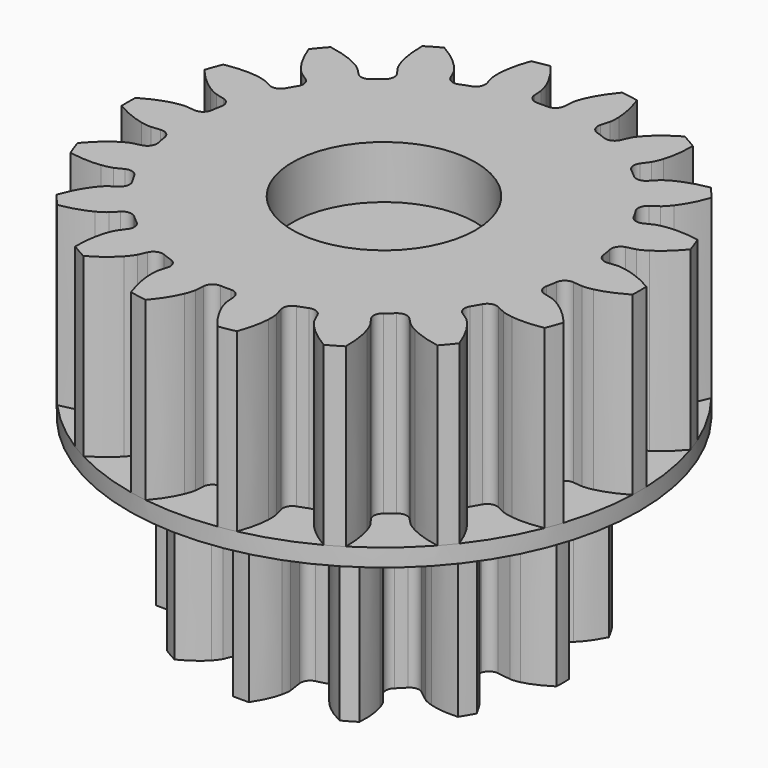
from build123d import *

# Parameters (mm, degrees)
PAD002_DEPTH    = 10
SKETCH_R        = 14.5
PAD_DEPTH       = 1
PAD001_DEPTH    = 10
SKETCH001_R     = 1.7
POCKET_DEPTH    = 17.7
SKETCH002_R     = 5
POCKET001_DEPTH = 3
SKETCH003_R     = 5.2
POCKET002_DEPTH = 3


with BuildPart() as pad:
    # InvoluteGear001 → Pad002 (new body)
    with BuildSketch(Plane.XY):
        with BuildLine():
            Line((7.332691, -1.076777), (8.11163, -1.189963))
            add(Edge.make_bspline(
                [(8.11163, -1.189963), (8.171593, -1.194233), (8.35162, -1.198221), (8.65427, -1.129313)],
                knots=[0, 0, 0, 0, 1, 1, 1, 1], degree=3))
            add(Edge.make_bspline(
                [(8.65427, -1.129313), (9.014524, -1.045174), (9.527501, -0.858342), (10.142045, -0.449147)],
                knots=[0, 0, 0, 0, 1, 1, 1, 1], degree=3))
            ThreePointArc((10.142045, -0.449147), (10.151987, 0), (10.142045, 0.449147))
            add(Edge.make_bspline(
                [(10.142045, 0.449147), (9.527501, 0.858342), (9.014524, 1.045174), (8.65427, 1.129313)],
                knots=[0, 0, 0, 0, 1, 1, 1, 1], degree=3))
            add(Edge.make_bspline(
                [(8.65427, 1.129313), (8.35162, 1.198221), (8.171593, 1.194233), (8.11163, 1.189963)],
                knots=[0, 0, 0, 0, 1, 1, 1, 1], degree=3))
            Line((8.11163, 1.189963), (7.332691, 1.076777))
            ThreePointArc((7.332691, 1.076777), (6.945887, 1.166515), (6.723226, 1.49529))
            ThreePointArc((6.723226, 1.49529), (6.652814, 1.782616), (6.570129, 2.066654))
            ThreePointArc((6.570129, 2.066654), (6.598572, 2.462712), (6.888686, 2.733829))
            Line((6.888686, 2.733829), (7.619859, 3.025277))
            add(Edge.make_bspline(
                [(7.619859, 3.025277), (7.673924, 3.05156), (7.831825, 3.13812), (8.059474, 3.349121)],
                knots=[0, 0, 0, 0, 1, 1, 1, 1], degree=3))
            add(Edge.make_bspline(
                [(8.059474, 3.349121), (8.329394, 3.602115), (8.680229, 4.020404), (9.007842, 4.68205)],
                knots=[0, 0, 0, 0, 1, 1, 1, 1], degree=3))
            ThreePointArc((9.007842, 4.68205), (8.791879, 5.075994), (8.558695, 5.459995))
            add(Edge.make_bspline(
                [(8.558695, 5.459995), (7.821886, 5.507097), (7.28422, 5.41241), (6.930161, 5.305148)],
                knots=[0, 0, 0, 0, 1, 1, 1, 1], degree=3))
            add(Edge.make_bspline(
                [(6.930161, 5.305148), (6.633604, 5.2135), (6.479691, 5.120033), (6.429896, 5.086354)],
                knots=[0, 0, 0, 0, 1, 1, 1, 1], degree=3))
            Line((6.429896, 5.086354), (5.811908, 4.598862))
            ThreePointArc((5.811908, 4.598862), (5.432057, 4.483175), (5.074839, 4.656572))
            ThreePointArc((5.074839, 4.656572), (4.870198, 4.870198), (4.656572, 5.074839))
            ThreePointArc((4.656572, 5.074839), (4.483175, 5.432057), (4.598862, 5.811908))
            Line((4.598862, 5.811908), (5.086354, 6.429896))
            add(Edge.make_bspline(
                [(5.086354, 6.429896), (5.120033, 6.479691), (5.2135, 6.633604), (5.305148, 6.930161)],
                knots=[0, 0, 0, 0, 1, 1, 1, 1], degree=3))
            add(Edge.make_bspline(
                [(5.305148, 6.930161), (5.41241, 7.28422), (5.507097, 7.821886), (5.459995, 8.558695)],
                knots=[0, 0, 0, 0, 1, 1, 1, 1], degree=3))
            ThreePointArc((5.459995, 8.558695), (5.075994, 8.791879), (4.68205, 9.007842))
            add(Edge.make_bspline(
                [(4.68205, 9.007842), (4.020404, 8.680229), (3.602115, 8.329394), (3.349121, 8.059474)],
                knots=[0, 0, 0, 0, 1, 1, 1, 1], degree=3))
            add(Edge.make_bspline(
                [(3.349121, 8.059474), (3.13812, 7.831825), (3.05156, 7.673924), (3.025277, 7.619859)],
                knots=[0, 0, 0, 0, 1, 1, 1, 1], degree=3))
            Line((3.025277, 7.619859), (2.733829, 6.888686))
            ThreePointArc((2.733829, 6.888686), (2.462712, 6.598572), (2.066654, 6.570129))
            ThreePointArc((2.066654, 6.570129), (1.782616, 6.652814), (1.49529, 6.723226))
            ThreePointArc((1.49529, 6.723226), (1.166515, 6.945887), (1.076777, 7.332691))
            Line((1.076777, 7.332691), (1.189963, 8.11163))
            add(Edge.make_bspline(
                [(1.189963, 8.11163), (1.194233, 8.171593), (1.198221, 8.35162), (1.129313, 8.65427)],
                knots=[0, 0, 0, 0, 1, 1, 1, 1], degree=3))
            add(Edge.make_bspline(
                [(1.129313, 8.65427), (1.045174, 9.014524), (0.858342, 9.527501), (0.449147, 10.142045)],
                knots=[0, 0, 0, 0, 1, 1, 1, 1], degree=3))
            ThreePointArc((0.449147, 10.142045), (0, 10.151987), (-0.449147, 10.142045))
            add(Edge.make_bspline(
                [(-0.449147, 10.142045), (-0.858342, 9.527501), (-1.045174, 9.014524), (-1.129313, 8.65427)],
                knots=[0, 0, 0, 0, 1, 1, 1, 1], degree=3))
            add(Edge.make_bspline(
                [(-1.129313, 8.65427), (-1.198221, 8.35162), (-1.194233, 8.171593), (-1.189963, 8.11163)],
                knots=[0, 0, 0, 0, 1, 1, 1, 1], degree=3))
            Line((-1.189963, 8.11163), (-1.076777, 7.332691))
            ThreePointArc((-1.076777, 7.332691), (-1.166515, 6.945887), (-1.49529, 6.723226))
            ThreePointArc((-1.49529, 6.723226), (-1.782616, 6.652814), (-2.066654, 6.570129))
            ThreePointArc((-2.066654, 6.570129), (-2.462712, 6.598572), (-2.733829, 6.888686))
            Line((-2.733829, 6.888686), (-3.025277, 7.619859))
            add(Edge.make_bspline(
                [(-3.025277, 7.619859), (-3.05156, 7.673924), (-3.13812, 7.831825), (-3.349121, 8.059474)],
                knots=[0, 0, 0, 0, 1, 1, 1, 1], degree=3))
            add(Edge.make_bspline(
                [(-3.349121, 8.059474), (-3.602115, 8.329394), (-4.020404, 8.680229), (-4.68205, 9.007842)],
                knots=[0, 0, 0, 0, 1, 1, 1, 1], degree=3))
            ThreePointArc((-4.68205, 9.007842), (-5.075994, 8.791879), (-5.459995, 8.558695))
            add(Edge.make_bspline(
                [(-5.459995, 8.558695), (-5.507097, 7.821886), (-5.41241, 7.28422), (-5.305148, 6.930161)],
                knots=[0, 0, 0, 0, 1, 1, 1, 1], degree=3))
            add(Edge.make_bspline(
                [(-5.305148, 6.930161), (-5.2135, 6.633604), (-5.120033, 6.479691), (-5.086354, 6.429896)],
                knots=[0, 0, 0, 0, 1, 1, 1, 1], degree=3))
            Line((-5.086354, 6.429896), (-4.598862, 5.811908))
            ThreePointArc((-4.598862, 5.811908), (-4.483175, 5.432057), (-4.656572, 5.074839))
            ThreePointArc((-4.656572, 5.074839), (-4.870198, 4.870198), (-5.074839, 4.656572))
            ThreePointArc((-5.074839, 4.656572), (-5.432057, 4.483175), (-5.811908, 4.598862))
            Line((-5.811908, 4.598862), (-6.429896, 5.086354))
            add(Edge.make_bspline(
                [(-6.429896, 5.086354), (-6.479691, 5.120033), (-6.633604, 5.2135), (-6.930161, 5.305148)],
                knots=[0, 0, 0, 0, 1, 1, 1, 1], degree=3))
            add(Edge.make_bspline(
                [(-6.930161, 5.305148), (-7.28422, 5.41241), (-7.821886, 5.507097), (-8.558695, 5.459995)],
                knots=[0, 0, 0, 0, 1, 1, 1, 1], degree=3))
            ThreePointArc((-8.558695, 5.459995), (-8.791879, 5.075994), (-9.007842, 4.68205))
            add(Edge.make_bspline(
                [(-9.007842, 4.68205), (-8.680229, 4.020404), (-8.329394, 3.602115), (-8.059474, 3.349121)],
                knots=[0, 0, 0, 0, 1, 1, 1, 1], degree=3))
            add(Edge.make_bspline(
                [(-8.059474, 3.349121), (-7.831825, 3.13812), (-7.673924, 3.05156), (-7.619859, 3.025277)],
                knots=[0, 0, 0, 0, 1, 1, 1, 1], degree=3))
            Line((-7.619859, 3.025277), (-6.888686, 2.733829))
            ThreePointArc((-6.888686, 2.733829), (-6.598572, 2.462712), (-6.570129, 2.066654))
            ThreePointArc((-6.570129, 2.066654), (-6.652814, 1.782616), (-6.723226, 1.49529))
            ThreePointArc((-6.723226, 1.49529), (-6.945887, 1.166515), (-7.332691, 1.076777))
            Line((-7.332691, 1.076777), (-8.11163, 1.189963))
            add(Edge.make_bspline(
                [(-8.11163, 1.189963), (-8.171593, 1.194233), (-8.35162, 1.198221), (-8.65427, 1.129313)],
                knots=[0, 0, 0, 0, 1, 1, 1, 1], degree=3))
            add(Edge.make_bspline(
                [(-8.65427, 1.129313), (-9.014524, 1.045174), (-9.527501, 0.858342), (-10.142045, 0.449147)],
                knots=[0, 0, 0, 0, 1, 1, 1, 1], degree=3))
            ThreePointArc((-10.142045, 0.449147), (-10.151987, 0), (-10.142045, -0.449147))
            add(Edge.make_bspline(
                [(-10.142045, -0.449147), (-9.527501, -0.858342), (-9.014524, -1.045174), (-8.65427, -1.129313)],
                knots=[0, 0, 0, 0, 1, 1, 1, 1], degree=3))
            add(Edge.make_bspline(
                [(-8.65427, -1.129313), (-8.35162, -1.198221), (-8.171593, -1.194233), (-8.11163, -1.189963)],
                knots=[0, 0, 0, 0, 1, 1, 1, 1], degree=3))
            Line((-8.11163, -1.189963), (-7.332691, -1.076777))
            ThreePointArc((-7.332691, -1.076777), (-6.945887, -1.166515), (-6.723226, -1.49529))
            ThreePointArc((-6.723226, -1.49529), (-6.652814, -1.782616), (-6.570129, -2.066654))
            ThreePointArc((-6.570129, -2.066654), (-6.598572, -2.462712), (-6.888686, -2.733829))
            Line((-6.888686, -2.733829), (-7.619859, -3.025277))
            add(Edge.make_bspline(
                [(-7.619859, -3.025277), (-7.673924, -3.05156), (-7.831825, -3.13812), (-8.059474, -3.349121)],
                knots=[0, 0, 0, 0, 1, 1, 1, 1], degree=3))
            add(Edge.make_bspline(
                [(-8.059474, -3.349121), (-8.329394, -3.602115), (-8.680229, -4.020404), (-9.007842, -4.68205)],
                knots=[0, 0, 0, 0, 1, 1, 1, 1], degree=3))
            ThreePointArc((-9.007842, -4.68205), (-8.791879, -5.075994), (-8.558695, -5.459995))
            add(Edge.make_bspline(
                [(-8.558695, -5.459995), (-7.821886, -5.507097), (-7.28422, -5.41241), (-6.930161, -5.305148)],
                knots=[0, 0, 0, 0, 1, 1, 1, 1], degree=3))
            add(Edge.make_bspline(
                [(-6.930161, -5.305148), (-6.633604, -5.2135), (-6.479691, -5.120033), (-6.429896, -5.086354)],
                knots=[0, 0, 0, 0, 1, 1, 1, 1], degree=3))
            Line((-6.429896, -5.086354), (-5.811908, -4.598862))
            ThreePointArc((-5.811908, -4.598862), (-5.432057, -4.483175), (-5.074839, -4.656572))
            ThreePointArc((-5.074839, -4.656572), (-4.870198, -4.870198), (-4.656572, -5.074839))
            ThreePointArc((-4.656572, -5.074839), (-4.483175, -5.432057), (-4.598862, -5.811908))
            Line((-4.598862, -5.811908), (-5.086354, -6.429896))
            add(Edge.make_bspline(
                [(-5.086354, -6.429896), (-5.120033, -6.479691), (-5.2135, -6.633604), (-5.305148, -6.930161)],
                knots=[0, 0, 0, 0, 1, 1, 1, 1], degree=3))
            add(Edge.make_bspline(
                [(-5.305148, -6.930161), (-5.41241, -7.28422), (-5.507097, -7.821886), (-5.459995, -8.558695)],
                knots=[0, 0, 0, 0, 1, 1, 1, 1], degree=3))
            ThreePointArc((-5.459995, -8.558695), (-5.075994, -8.791879), (-4.68205, -9.007842))
            add(Edge.make_bspline(
                [(-4.68205, -9.007842), (-4.020404, -8.680229), (-3.602115, -8.329394), (-3.349121, -8.059474)],
                knots=[0, 0, 0, 0, 1, 1, 1, 1], degree=3))
            add(Edge.make_bspline(
                [(-3.349121, -8.059474), (-3.13812, -7.831825), (-3.05156, -7.673924), (-3.025277, -7.619859)],
                knots=[0, 0, 0, 0, 1, 1, 1, 1], degree=3))
            Line((-3.025277, -7.619859), (-2.733829, -6.888686))
            ThreePointArc((-2.733829, -6.888686), (-2.462712, -6.598572), (-2.066654, -6.570129))
            ThreePointArc((-2.066654, -6.570129), (-1.782616, -6.652814), (-1.49529, -6.723226))
            ThreePointArc((-1.49529, -6.723226), (-1.166515, -6.945887), (-1.076777, -7.332691))
            Line((-1.076777, -7.332691), (-1.189963, -8.11163))
            add(Edge.make_bspline(
                [(-1.189963, -8.11163), (-1.194233, -8.171593), (-1.198221, -8.35162), (-1.129313, -8.65427)],
                knots=[0, 0, 0, 0, 1, 1, 1, 1], degree=3))
            add(Edge.make_bspline(
                [(-1.129313, -8.65427), (-1.045174, -9.014524), (-0.858342, -9.527501), (-0.449147, -10.142045)],
                knots=[0, 0, 0, 0, 1, 1, 1, 1], degree=3))
            ThreePointArc((-0.449147, -10.142045), (0, -10.151987), (0.449147, -10.142045))
            add(Edge.make_bspline(
                [(0.449147, -10.142045), (0.858342, -9.527501), (1.045174, -9.014524), (1.129313, -8.65427)],
                knots=[0, 0, 0, 0, 1, 1, 1, 1], degree=3))
            add(Edge.make_bspline(
                [(1.129313, -8.65427), (1.198221, -8.35162), (1.194233, -8.171593), (1.189963, -8.11163)],
                knots=[0, 0, 0, 0, 1, 1, 1, 1], degree=3))
            Line((1.189963, -8.11163), (1.076777, -7.332691))
            ThreePointArc((1.076777, -7.332691), (1.166515, -6.945887), (1.49529, -6.723226))
            ThreePointArc((1.49529, -6.723226), (1.782616, -6.652814), (2.066654, -6.570129))
            ThreePointArc((2.066654, -6.570129), (2.462712, -6.598572), (2.733829, -6.888686))
            Line((2.733829, -6.888686), (3.025277, -7.619859))
            add(Edge.make_bspline(
                [(3.025277, -7.619859), (3.05156, -7.673924), (3.13812, -7.831825), (3.349121, -8.059474)],
                knots=[0, 0, 0, 0, 1, 1, 1, 1], degree=3))
            add(Edge.make_bspline(
                [(3.349121, -8.059474), (3.602115, -8.329394), (4.020404, -8.680229), (4.68205, -9.007842)],
                knots=[0, 0, 0, 0, 1, 1, 1, 1], degree=3))
            ThreePointArc((4.68205, -9.007842), (5.075994, -8.791879), (5.459995, -8.558695))
            add(Edge.make_bspline(
                [(5.459995, -8.558695), (5.507097, -7.821886), (5.41241, -7.28422), (5.305148, -6.930161)],
                knots=[0, 0, 0, 0, 1, 1, 1, 1], degree=3))
            add(Edge.make_bspline(
                [(5.305148, -6.930161), (5.2135, -6.633604), (5.120033, -6.479691), (5.086354, -6.429896)],
                knots=[0, 0, 0, 0, 1, 1, 1, 1], degree=3))
            Line((5.086354, -6.429896), (4.598862, -5.811908))
            ThreePointArc((4.598862, -5.811908), (4.483175, -5.432057), (4.656572, -5.074839))
            ThreePointArc((4.656572, -5.074839), (4.870198, -4.870198), (5.074839, -4.656572))
            ThreePointArc((5.074839, -4.656572), (5.432057, -4.483175), (5.811908, -4.598862))
            Line((5.811908, -4.598862), (6.429896, -5.086354))
            add(Edge.make_bspline(
                [(6.429896, -5.086354), (6.479691, -5.120033), (6.633604, -5.2135), (6.930161, -5.305148)],
                knots=[0, 0, 0, 0, 1, 1, 1, 1], degree=3))
            add(Edge.make_bspline(
                [(6.930161, -5.305148), (7.28422, -5.41241), (7.821886, -5.507097), (8.558695, -5.459995)],
                knots=[0, 0, 0, 0, 1, 1, 1, 1], degree=3))
            ThreePointArc((8.558695, -5.459995), (8.791879, -5.075994), (9.007842, -4.68205))
            add(Edge.make_bspline(
                [(9.007842, -4.68205), (8.680229, -4.020404), (8.329394, -3.602115), (8.059474, -3.349121)],
                knots=[0, 0, 0, 0, 1, 1, 1, 1], degree=3))
            add(Edge.make_bspline(
                [(8.059474, -3.349121), (7.831825, -3.13812), (7.673924, -3.05156), (7.619859, -3.025277)],
                knots=[0, 0, 0, 0, 1, 1, 1, 1], degree=3))
            Line((7.619859, -3.025277), (6.888686, -2.733829))
            ThreePointArc((6.888686, -2.733829), (6.598572, -2.462712), (6.570129, -2.066654))
            ThreePointArc((6.570129, -2.066654), (6.652814, -1.782616), (6.723226, -1.49529))
            ThreePointArc((6.723226, -1.49529), (6.945887, -1.166515), (7.332691, -1.076777))
        make_face()
    extrude(amount=-PAD002_DEPTH)

    # Sketch → Pad (new body)
    with BuildSketch(Plane.XY):
        Circle(SKETCH_R)
    extrude(amount=PAD_DEPTH)


with BuildPart() as final:
    # InvoluteGear → Pad001 (new body)
    with BuildSketch(Plane.XY.offset(1)):
        with BuildLine():
            Line((11.707323, -1.200327), (12.224235, -1.252222))
            add(Edge.make_bspline(
                [(12.224235, -1.252222), (12.290492, -1.254765), (12.489834, -1.254028), (12.822773, -1.181097)],
                knots=[0, 0, 0, 0, 1, 1, 1, 1], degree=3))
            add(Edge.make_bspline(
                [(12.822773, -1.181097), (13.220721, -1.092448), (13.792352, -0.90147), (14.493245, -0.493472)],
                knots=[0, 0, 0, 0, 1, 1, 1, 1], degree=3))
            ThreePointArc((14.493245, -0.493472), (14.501644, 0), (14.493245, 0.493472))
            add(Edge.make_bspline(
                [(14.493245, 0.493472), (13.792352, 0.90147), (13.220721, 1.092448), (12.822773, 1.181097)],
                knots=[0, 0, 0, 0, 1, 1, 1, 1], degree=3))
            add(Edge.make_bspline(
                [(12.822773, 1.181097), (12.489834, 1.254028), (12.290492, 1.254765), (12.224235, 1.252222)],
                knots=[0, 0, 0, 0, 1, 1, 1, 1], degree=3))
            Line((12.224235, 1.252222), (11.707323, 1.200327))
            ThreePointArc((11.707323, 1.200327), (11.318638, 1.311561), (11.114167, 1.66033))
            ThreePointArc((11.114167, 1.66033), (11.066777, 1.951371), (11.011767, 2.241069))
            ThreePointArc((11.011767, 2.241069), (11.084621, 2.638738), (11.411821, 2.876202))
            Line((11.411821, 2.876202), (11.915309, 3.004231))
            add(Edge.make_bspline(
                [(11.915309, 3.004231), (11.978439, 3.024502), (12.165508, 3.093374), (12.453424, 3.275779)],
                knots=[0, 0, 0, 0, 1, 1, 1, 1], degree=3))
            add(Edge.make_bspline(
                [(12.453424, 3.275779), (12.797053, 3.495187), (13.268892, 3.870157), (13.787973, 4.49327)],
                knots=[0, 0, 0, 0, 1, 1, 1, 1], degree=3))
            ThreePointArc((13.787973, 4.49327), (13.627088, 4.959855), (13.450418, 5.420694))
            add(Edge.make_bspline(
                [(13.450418, 5.420694), (12.652251, 5.564367), (12.049774, 5.548318), (11.645506, 5.495514)],
                knots=[0, 0, 0, 0, 1, 1, 1, 1], degree=3))
            add(Edge.make_bspline(
                [(11.645506, 5.495514), (11.307703, 5.450176), (11.12013, 5.382689), (11.058738, 5.357639)],
                knots=[0, 0, 0, 0, 1, 1, 1, 1], degree=3))
            Line((11.058738, 5.357639), (10.590749, 5.132078))
            ThreePointArc((10.590749, 5.132078), (10.187461, 5.103666), (9.876034, 5.361469))
            ThreePointArc((9.876034, 5.361469), (9.73196, 5.61875), (9.581186, 5.872162))
            ThreePointArc((9.581186, 5.872162), (9.513635, 6.270767), (9.739885, 6.605818))
            Line((9.739885, 6.605818), (10.169221, 6.898329))
            add(Edge.make_bspline(
                [(10.169221, 6.898329), (10.22161, 6.93897), (10.373842, 7.06767), (10.582008, 7.337547)],
                knots=[0, 0, 0, 0, 1, 1, 1, 1], degree=3))
            add(Edge.make_bspline(
                [(10.582008, 7.337547), (10.829872, 7.661252), (11.145008, 8.174987), (11.419667, 8.938057)],
                knots=[0, 0, 0, 0, 1, 1, 1, 1], degree=3))
            ThreePointArc((11.419667, 8.938057), (11.108904, 9.321477), (10.785272, 9.6941))
            add(Edge.make_bspline(
                [(10.785272, 9.6941), (9.986101, 9.556119), (9.425447, 9.334979), (9.06362, 9.147092)],
                knots=[0, 0, 0, 0, 1, 1, 1, 1], degree=3))
            add(Edge.make_bspline(
                [(9.06362, 9.147092), (8.761695, 8.988952), (8.608516, 8.861382), (8.559394, 8.816845)],
                knots=[0, 0, 0, 0, 1, 1, 1, 1], degree=3))
            Line((8.559394, 8.816845), (8.196774, 8.444826))
            ThreePointArc((8.196774, 8.444826), (7.827525, 8.280194), (7.446706, 8.415936))
            ThreePointArc((7.446706, 8.415936), (7.223326, 8.608424), (6.994972, 8.794986))
            ThreePointArc((6.994972, 8.794986), (6.795164, 9.146448), (6.893175, 9.538675))
            Line((6.893175, 9.538675), (7.196574, 9.960387))
            add(Edge.make_bspline(
                [(7.196574, 9.960387), (7.231904, 10.016496), (7.330937, 10.1895), (7.434246, 10.514299)],
                knots=[0, 0, 0, 0, 1, 1, 1, 1], degree=3))
            add(Edge.make_bspline(
                [(7.434246, 10.514299), (7.556448, 10.903256), (7.676872, 11.493792), (7.673982, 12.304782)],
                knots=[0, 0, 0, 0, 1, 1, 1, 1], degree=3))
            ThreePointArc((7.673982, 12.304782), (7.250822, 12.558792), (6.819263, 12.798254))
            add(Edge.make_bspline(
                [(6.819263, 12.798254), (6.11548, 12.395262), (5.664272, 11.995704), (5.388527, 11.695396)],
                knots=[0, 0, 0, 0, 1, 1, 1, 1], degree=3))
            add(Edge.make_bspline(
                [(5.388527, 11.695396), (5.158897, 11.443528), (5.058588, 11.271261), (5.027661, 11.21261)],
                knots=[0, 0, 0, 0, 1, 1, 1, 1], degree=3))
            Line((5.027661, 11.21261), (4.814148, 10.739002))
            ThreePointArc((4.814148, 10.739002), (4.523474, 10.458009), (4.119196, 10.455316))
            ThreePointArc((4.119196, 10.455316), (3.843451, 10.559796), (3.565061, 10.657005))
            ThreePointArc((3.565061, 10.657005), (3.257096, 10.918933), (3.215046, 11.321028))
            Line((3.215046, 11.321028), (3.355915, 11.821076))
            add(Edge.make_bspline(
                [(3.355915, 11.821076), (3.369924, 11.885884), (3.403813, 12.082326), (3.389804, 12.422871)],
                knots=[0, 0, 0, 0, 1, 1, 1, 1], degree=3))
            add(Edge.make_bspline(
                [(3.389804, 12.422871), (3.371605, 12.830166), (3.282792, 13.426277), (3.0027, 14.18737)],
                knots=[0, 0, 0, 0, 1, 1, 1, 1], degree=3))
            ThreePointArc((3.0027, 14.18737), (2.518184, 14.281332), (2.030751, 14.35875))
            add(Edge.make_bspline(
                [(2.030751, 14.35875), (1.507242, 13.739354), (1.219903, 13.20957), (1.063498, 12.833062)],
                knots=[0, 0, 0, 0, 1, 1, 1, 1], degree=3))
            add(Edge.make_bspline(
                [(1.063498, 12.833062), (0.933861, 12.517845), (0.898519, 12.321659), (0.889518, 12.255968)],
                knots=[0, 0, 0, 0, 1, 1, 1, 1], degree=3))
            Line((0.889518, 12.255968), (0.850864, 11.737897))
            ThreePointArc((0.850864, 11.737897), (0.673826, 11.374433), (0.294849, 11.233631))
            ThreePointArc((0.294849, 11.233631), (0, 11.2375), (-0.294849, 11.233631))
            ThreePointArc((-0.294849, 11.233631), (-0.673826, 11.374433), (-0.850864, 11.737897))
            Line((-0.850864, 11.737897), (-0.889518, 12.255968))
            add(Edge.make_bspline(
                [(-0.889518, 12.255968), (-0.898519, 12.321659), (-0.933861, 12.517845), (-1.063498, 12.833062)],
                knots=[0, 0, 0, 0, 1, 1, 1, 1], degree=3))
            add(Edge.make_bspline(
                [(-1.063498, 12.833062), (-1.219903, 13.20957), (-1.507242, 13.739354), (-2.030751, 14.35875)],
                knots=[0, 0, 0, 0, 1, 1, 1, 1], degree=3))
            ThreePointArc((-2.030751, 14.35875), (-2.518184, 14.281332), (-3.0027, 14.18737))
            add(Edge.make_bspline(
                [(-3.0027, 14.18737), (-3.282792, 13.426277), (-3.371605, 12.830166), (-3.389804, 12.422871)],
                knots=[0, 0, 0, 0, 1, 1, 1, 1], degree=3))
            add(Edge.make_bspline(
                [(-3.389804, 12.422871), (-3.403813, 12.082326), (-3.369924, 11.885884), (-3.355915, 11.821076)],
                knots=[0, 0, 0, 0, 1, 1, 1, 1], degree=3))
            Line((-3.355915, 11.821076), (-3.215046, 11.321028))
            ThreePointArc((-3.215046, 11.321028), (-3.257096, 10.918933), (-3.565061, 10.657005))
            ThreePointArc((-3.565061, 10.657005), (-3.843451, 10.559796), (-4.119196, 10.455316))
            ThreePointArc((-4.119196, 10.455316), (-4.523474, 10.458009), (-4.814148, 10.739002))
            Line((-4.814148, 10.739002), (-5.027661, 11.21261))
            add(Edge.make_bspline(
                [(-5.027661, 11.21261), (-5.058588, 11.271261), (-5.158897, 11.443528), (-5.388527, 11.695396)],
                knots=[0, 0, 0, 0, 1, 1, 1, 1], degree=3))
            add(Edge.make_bspline(
                [(-5.388527, 11.695396), (-5.664272, 11.995704), (-6.11548, 12.395262), (-6.819263, 12.798254)],
                knots=[0, 0, 0, 0, 1, 1, 1, 1], degree=3))
            ThreePointArc((-6.819263, 12.798254), (-7.250822, 12.558792), (-7.673982, 12.304782))
            add(Edge.make_bspline(
                [(-7.673982, 12.304782), (-7.676872, 11.493792), (-7.556448, 10.903256), (-7.434246, 10.514299)],
                knots=[0, 0, 0, 0, 1, 1, 1, 1], degree=3))
            add(Edge.make_bspline(
                [(-7.434246, 10.514299), (-7.330937, 10.1895), (-7.231904, 10.016496), (-7.196574, 9.960387)],
                knots=[0, 0, 0, 0, 1, 1, 1, 1], degree=3))
            Line((-7.196574, 9.960387), (-6.893175, 9.538675))
            ThreePointArc((-6.893175, 9.538675), (-6.795164, 9.146448), (-6.994972, 8.794986))
            ThreePointArc((-6.994972, 8.794986), (-7.223326, 8.608424), (-7.446706, 8.415936))
            ThreePointArc((-7.446706, 8.415936), (-7.827525, 8.280194), (-8.196774, 8.444826))
            Line((-8.196774, 8.444826), (-8.559394, 8.816845))
            add(Edge.make_bspline(
                [(-8.559394, 8.816845), (-8.608516, 8.861382), (-8.761695, 8.988952), (-9.06362, 9.147092)],
                knots=[0, 0, 0, 0, 1, 1, 1, 1], degree=3))
            add(Edge.make_bspline(
                [(-9.06362, 9.147092), (-9.425447, 9.334979), (-9.986101, 9.556119), (-10.785272, 9.6941)],
                knots=[0, 0, 0, 0, 1, 1, 1, 1], degree=3))
            ThreePointArc((-10.785272, 9.6941), (-11.108904, 9.321477), (-11.419667, 8.938057))
            add(Edge.make_bspline(
                [(-11.419667, 8.938057), (-11.145008, 8.174987), (-10.829872, 7.661252), (-10.582008, 7.337547)],
                knots=[0, 0, 0, 0, 1, 1, 1, 1], degree=3))
            add(Edge.make_bspline(
                [(-10.582008, 7.337547), (-10.373842, 7.06767), (-10.22161, 6.93897), (-10.169221, 6.898329)],
                knots=[0, 0, 0, 0, 1, 1, 1, 1], degree=3))
            Line((-10.169221, 6.898329), (-9.739885, 6.605818))
            ThreePointArc((-9.739885, 6.605818), (-9.513635, 6.270767), (-9.581186, 5.872162))
            ThreePointArc((-9.581186, 5.872162), (-9.73196, 5.61875), (-9.876034, 5.361469))
            ThreePointArc((-9.876034, 5.361469), (-10.187461, 5.103666), (-10.590749, 5.132078))
            Line((-10.590749, 5.132078), (-11.058738, 5.357639))
            add(Edge.make_bspline(
                [(-11.058738, 5.357639), (-11.12013, 5.382689), (-11.307703, 5.450176), (-11.645506, 5.495514)],
                knots=[0, 0, 0, 0, 1, 1, 1, 1], degree=3))
            add(Edge.make_bspline(
                [(-11.645506, 5.495514), (-12.049774, 5.548318), (-12.652251, 5.564367), (-13.450418, 5.420694)],
                knots=[0, 0, 0, 0, 1, 1, 1, 1], degree=3))
            ThreePointArc((-13.450418, 5.420694), (-13.627088, 4.959855), (-13.787973, 4.49327))
            add(Edge.make_bspline(
                [(-13.787973, 4.49327), (-13.268892, 3.870157), (-12.797053, 3.495187), (-12.453424, 3.275779)],
                knots=[0, 0, 0, 0, 1, 1, 1, 1], degree=3))
            add(Edge.make_bspline(
                [(-12.453424, 3.275779), (-12.165508, 3.093374), (-11.978439, 3.024502), (-11.915309, 3.004231)],
                knots=[0, 0, 0, 0, 1, 1, 1, 1], degree=3))
            Line((-11.915309, 3.004231), (-11.411821, 2.876202))
            ThreePointArc((-11.411821, 2.876202), (-11.084621, 2.638738), (-11.011767, 2.241069))
            ThreePointArc((-11.011767, 2.241069), (-11.066777, 1.951371), (-11.114167, 1.66033))
            ThreePointArc((-11.114167, 1.66033), (-11.318638, 1.311561), (-11.707323, 1.200327))
            Line((-11.707323, 1.200327), (-12.224235, 1.252222))
            add(Edge.make_bspline(
                [(-12.224235, 1.252222), (-12.290492, 1.254765), (-12.489834, 1.254028), (-12.822773, 1.181097)],
                knots=[0, 0, 0, 0, 1, 1, 1, 1], degree=3))
            add(Edge.make_bspline(
                [(-12.822773, 1.181097), (-13.220721, 1.092448), (-13.792352, 0.90147), (-14.493245, 0.493472)],
                knots=[0, 0, 0, 0, 1, 1, 1, 1], degree=3))
            ThreePointArc((-14.493245, 0.493472), (-14.501644, 0), (-14.493245, -0.493472))
            add(Edge.make_bspline(
                [(-14.493245, -0.493472), (-13.792352, -0.90147), (-13.220721, -1.092448), (-12.822773, -1.181097)],
                knots=[0, 0, 0, 0, 1, 1, 1, 1], degree=3))
            add(Edge.make_bspline(
                [(-12.822773, -1.181097), (-12.489834, -1.254028), (-12.290492, -1.254765), (-12.224235, -1.252222)],
                knots=[0, 0, 0, 0, 1, 1, 1, 1], degree=3))
            Line((-12.224235, -1.252222), (-11.707323, -1.200327))
            ThreePointArc((-11.707323, -1.200327), (-11.318638, -1.311561), (-11.114167, -1.66033))
            ThreePointArc((-11.114167, -1.66033), (-11.066777, -1.951371), (-11.011767, -2.241069))
            ThreePointArc((-11.011767, -2.241069), (-11.084621, -2.638738), (-11.411821, -2.876202))
            Line((-11.411821, -2.876202), (-11.915309, -3.004231))
            add(Edge.make_bspline(
                [(-11.915309, -3.004231), (-11.978439, -3.024502), (-12.165508, -3.093374), (-12.453424, -3.275779)],
                knots=[0, 0, 0, 0, 1, 1, 1, 1], degree=3))
            add(Edge.make_bspline(
                [(-12.453424, -3.275779), (-12.797053, -3.495187), (-13.268892, -3.870157), (-13.787973, -4.49327)],
                knots=[0, 0, 0, 0, 1, 1, 1, 1], degree=3))
            ThreePointArc((-13.787973, -4.49327), (-13.627088, -4.959855), (-13.450418, -5.420694))
            add(Edge.make_bspline(
                [(-13.450418, -5.420694), (-12.652251, -5.564367), (-12.049774, -5.548318), (-11.645506, -5.495514)],
                knots=[0, 0, 0, 0, 1, 1, 1, 1], degree=3))
            add(Edge.make_bspline(
                [(-11.645506, -5.495514), (-11.307703, -5.450176), (-11.12013, -5.382689), (-11.058738, -5.357639)],
                knots=[0, 0, 0, 0, 1, 1, 1, 1], degree=3))
            Line((-11.058738, -5.357639), (-10.590749, -5.132078))
            ThreePointArc((-10.590749, -5.132078), (-10.187461, -5.103666), (-9.876034, -5.361469))
            ThreePointArc((-9.876034, -5.361469), (-9.73196, -5.61875), (-9.581186, -5.872162))
            ThreePointArc((-9.581186, -5.872162), (-9.513635, -6.270767), (-9.739885, -6.605818))
            Line((-9.739885, -6.605818), (-10.169221, -6.898329))
            add(Edge.make_bspline(
                [(-10.169221, -6.898329), (-10.22161, -6.93897), (-10.373842, -7.06767), (-10.582008, -7.337547)],
                knots=[0, 0, 0, 0, 1, 1, 1, 1], degree=3))
            add(Edge.make_bspline(
                [(-10.582008, -7.337547), (-10.829872, -7.661252), (-11.145008, -8.174987), (-11.419667, -8.938057)],
                knots=[0, 0, 0, 0, 1, 1, 1, 1], degree=3))
            ThreePointArc((-11.419667, -8.938057), (-11.108904, -9.321477), (-10.785272, -9.6941))
            add(Edge.make_bspline(
                [(-10.785272, -9.6941), (-9.986101, -9.556119), (-9.425447, -9.334979), (-9.06362, -9.147092)],
                knots=[0, 0, 0, 0, 1, 1, 1, 1], degree=3))
            add(Edge.make_bspline(
                [(-9.06362, -9.147092), (-8.761695, -8.988952), (-8.608516, -8.861382), (-8.559394, -8.816845)],
                knots=[0, 0, 0, 0, 1, 1, 1, 1], degree=3))
            Line((-8.559394, -8.816845), (-8.196774, -8.444826))
            ThreePointArc((-8.196774, -8.444826), (-7.827525, -8.280194), (-7.446706, -8.415936))
            ThreePointArc((-7.446706, -8.415936), (-7.223326, -8.608424), (-6.994972, -8.794986))
            ThreePointArc((-6.994972, -8.794986), (-6.795164, -9.146448), (-6.893175, -9.538675))
            Line((-6.893175, -9.538675), (-7.196574, -9.960387))
            add(Edge.make_bspline(
                [(-7.196574, -9.960387), (-7.231904, -10.016496), (-7.330937, -10.1895), (-7.434246, -10.514299)],
                knots=[0, 0, 0, 0, 1, 1, 1, 1], degree=3))
            add(Edge.make_bspline(
                [(-7.434246, -10.514299), (-7.556448, -10.903256), (-7.676872, -11.493792), (-7.673982, -12.304782)],
                knots=[0, 0, 0, 0, 1, 1, 1, 1], degree=3))
            ThreePointArc((-7.673982, -12.304782), (-7.250822, -12.558792), (-6.819263, -12.798254))
            add(Edge.make_bspline(
                [(-6.819263, -12.798254), (-6.11548, -12.395262), (-5.664272, -11.995704), (-5.388527, -11.695396)],
                knots=[0, 0, 0, 0, 1, 1, 1, 1], degree=3))
            add(Edge.make_bspline(
                [(-5.388527, -11.695396), (-5.158897, -11.443528), (-5.058588, -11.271261), (-5.027661, -11.21261)],
                knots=[0, 0, 0, 0, 1, 1, 1, 1], degree=3))
            Line((-5.027661, -11.21261), (-4.814148, -10.739002))
            ThreePointArc((-4.814148, -10.739002), (-4.523474, -10.458009), (-4.119196, -10.455316))
            ThreePointArc((-4.119196, -10.455316), (-3.843451, -10.559796), (-3.565061, -10.657005))
            ThreePointArc((-3.565061, -10.657005), (-3.257096, -10.918933), (-3.215046, -11.321028))
            Line((-3.215046, -11.321028), (-3.355915, -11.821076))
            add(Edge.make_bspline(
                [(-3.355915, -11.821076), (-3.369924, -11.885884), (-3.403813, -12.082326), (-3.389804, -12.422871)],
                knots=[0, 0, 0, 0, 1, 1, 1, 1], degree=3))
            add(Edge.make_bspline(
                [(-3.389804, -12.422871), (-3.371605, -12.830166), (-3.282792, -13.426277), (-3.0027, -14.18737)],
                knots=[0, 0, 0, 0, 1, 1, 1, 1], degree=3))
            ThreePointArc((-3.0027, -14.18737), (-2.518184, -14.281332), (-2.030751, -14.35875))
            add(Edge.make_bspline(
                [(-2.030751, -14.35875), (-1.507242, -13.739354), (-1.219903, -13.20957), (-1.063498, -12.833062)],
                knots=[0, 0, 0, 0, 1, 1, 1, 1], degree=3))
            add(Edge.make_bspline(
                [(-1.063498, -12.833062), (-0.933861, -12.517845), (-0.898519, -12.321659), (-0.889518, -12.255968)],
                knots=[0, 0, 0, 0, 1, 1, 1, 1], degree=3))
            Line((-0.889518, -12.255968), (-0.850864, -11.737897))
            ThreePointArc((-0.850864, -11.737897), (-0.673826, -11.374433), (-0.294849, -11.233631))
            ThreePointArc((-0.294849, -11.233631), (0, -11.2375), (0.294849, -11.233631))
            ThreePointArc((0.294849, -11.233631), (0.673826, -11.374433), (0.850864, -11.737897))
            Line((0.850864, -11.737897), (0.889518, -12.255968))
            add(Edge.make_bspline(
                [(0.889518, -12.255968), (0.898519, -12.321659), (0.933861, -12.517845), (1.063498, -12.833062)],
                knots=[0, 0, 0, 0, 1, 1, 1, 1], degree=3))
            add(Edge.make_bspline(
                [(1.063498, -12.833062), (1.219903, -13.20957), (1.507242, -13.739354), (2.030751, -14.35875)],
                knots=[0, 0, 0, 0, 1, 1, 1, 1], degree=3))
            ThreePointArc((2.030751, -14.35875), (2.518184, -14.281332), (3.0027, -14.18737))
            add(Edge.make_bspline(
                [(3.0027, -14.18737), (3.282792, -13.426277), (3.371605, -12.830166), (3.389804, -12.422871)],
                knots=[0, 0, 0, 0, 1, 1, 1, 1], degree=3))
            add(Edge.make_bspline(
                [(3.389804, -12.422871), (3.403813, -12.082326), (3.369924, -11.885884), (3.355915, -11.821076)],
                knots=[0, 0, 0, 0, 1, 1, 1, 1], degree=3))
            Line((3.355915, -11.821076), (3.215046, -11.321028))
            ThreePointArc((3.215046, -11.321028), (3.257096, -10.918933), (3.565061, -10.657005))
            ThreePointArc((3.565061, -10.657005), (3.843451, -10.559796), (4.119196, -10.455316))
            ThreePointArc((4.119196, -10.455316), (4.523474, -10.458009), (4.814148, -10.739002))
            Line((4.814148, -10.739002), (5.027661, -11.21261))
            add(Edge.make_bspline(
                [(5.027661, -11.21261), (5.058588, -11.271261), (5.158897, -11.443528), (5.388527, -11.695396)],
                knots=[0, 0, 0, 0, 1, 1, 1, 1], degree=3))
            add(Edge.make_bspline(
                [(5.388527, -11.695396), (5.664272, -11.995704), (6.11548, -12.395262), (6.819263, -12.798254)],
                knots=[0, 0, 0, 0, 1, 1, 1, 1], degree=3))
            ThreePointArc((6.819263, -12.798254), (7.250822, -12.558792), (7.673982, -12.304782))
            add(Edge.make_bspline(
                [(7.673982, -12.304782), (7.676872, -11.493792), (7.556448, -10.903256), (7.434246, -10.514299)],
                knots=[0, 0, 0, 0, 1, 1, 1, 1], degree=3))
            add(Edge.make_bspline(
                [(7.434246, -10.514299), (7.330937, -10.1895), (7.231904, -10.016496), (7.196574, -9.960387)],
                knots=[0, 0, 0, 0, 1, 1, 1, 1], degree=3))
            Line((7.196574, -9.960387), (6.893175, -9.538675))
            ThreePointArc((6.893175, -9.538675), (6.795164, -9.146448), (6.994972, -8.794986))
            ThreePointArc((6.994972, -8.794986), (7.223326, -8.608424), (7.446706, -8.415936))
            ThreePointArc((7.446706, -8.415936), (7.827525, -8.280194), (8.196774, -8.444826))
            Line((8.196774, -8.444826), (8.559394, -8.816845))
            add(Edge.make_bspline(
                [(8.559394, -8.816845), (8.608516, -8.861382), (8.761695, -8.988952), (9.06362, -9.147092)],
                knots=[0, 0, 0, 0, 1, 1, 1, 1], degree=3))
            add(Edge.make_bspline(
                [(9.06362, -9.147092), (9.425447, -9.334979), (9.986101, -9.556119), (10.785272, -9.6941)],
                knots=[0, 0, 0, 0, 1, 1, 1, 1], degree=3))
            ThreePointArc((10.785272, -9.6941), (11.108904, -9.321477), (11.419667, -8.938057))
            add(Edge.make_bspline(
                [(11.419667, -8.938057), (11.145008, -8.174987), (10.829872, -7.661252), (10.582008, -7.337547)],
                knots=[0, 0, 0, 0, 1, 1, 1, 1], degree=3))
            add(Edge.make_bspline(
                [(10.582008, -7.337547), (10.373842, -7.06767), (10.22161, -6.93897), (10.169221, -6.898329)],
                knots=[0, 0, 0, 0, 1, 1, 1, 1], degree=3))
            Line((10.169221, -6.898329), (9.739885, -6.605818))
            ThreePointArc((9.739885, -6.605818), (9.513635, -6.270767), (9.581186, -5.872162))
            ThreePointArc((9.581186, -5.872162), (9.73196, -5.61875), (9.876034, -5.361469))
            ThreePointArc((9.876034, -5.361469), (10.187461, -5.103666), (10.590749, -5.132078))
            Line((10.590749, -5.132078), (11.058738, -5.357639))
            add(Edge.make_bspline(
                [(11.058738, -5.357639), (11.12013, -5.382689), (11.307703, -5.450176), (11.645506, -5.495514)],
                knots=[0, 0, 0, 0, 1, 1, 1, 1], degree=3))
            add(Edge.make_bspline(
                [(11.645506, -5.495514), (12.049774, -5.548318), (12.652251, -5.564367), (13.450418, -5.420694)],
                knots=[0, 0, 0, 0, 1, 1, 1, 1], degree=3))
            ThreePointArc((13.450418, -5.420694), (13.627088, -4.959855), (13.787973, -4.49327))
            add(Edge.make_bspline(
                [(13.787973, -4.49327), (13.268892, -3.870157), (12.797053, -3.495187), (12.453424, -3.275779)],
                knots=[0, 0, 0, 0, 1, 1, 1, 1], degree=3))
            add(Edge.make_bspline(
                [(12.453424, -3.275779), (12.165508, -3.093374), (11.978439, -3.024502), (11.915309, -3.004231)],
                knots=[0, 0, 0, 0, 1, 1, 1, 1], degree=3))
            Line((11.915309, -3.004231), (11.411821, -2.876202))
            ThreePointArc((11.411821, -2.876202), (11.084621, -2.638738), (11.011767, -2.241069))
            ThreePointArc((11.011767, -2.241069), (11.066777, -1.951371), (11.114167, -1.66033))
            ThreePointArc((11.114167, -1.66033), (11.318638, -1.311561), (11.707323, -1.200327))
        make_face()
    extrude(amount=PAD001_DEPTH)

    # Fusion: union Pad
    add(pad.part)

    # Sketch001 → Pocket (cut)
    with BuildSketch(Plane(origin=(0, 0, -10), x_dir=(1, 0, 0), z_dir=(0, 0, -1))):
        Circle(SKETCH001_R)
    extrude(amount=-POCKET_DEPTH, mode=Mode.SUBTRACT)

    # Sketch002 → Pocket001 (cut)
    with BuildSketch(Plane(origin=(0, 0, -10), x_dir=(1, 0, 0), z_dir=(0, 0, -1))):
        Circle(SKETCH002_R)
    extrude(amount=-POCKET001_DEPTH, mode=Mode.SUBTRACT)

    # Sketch003 → Pocket002 (cut)
    with BuildSketch(Plane.XY.offset(11)):
        Circle(SKETCH003_R)
    extrude(amount=-POCKET002_DEPTH, mode=Mode.SUBTRACT)


solid = final.part
